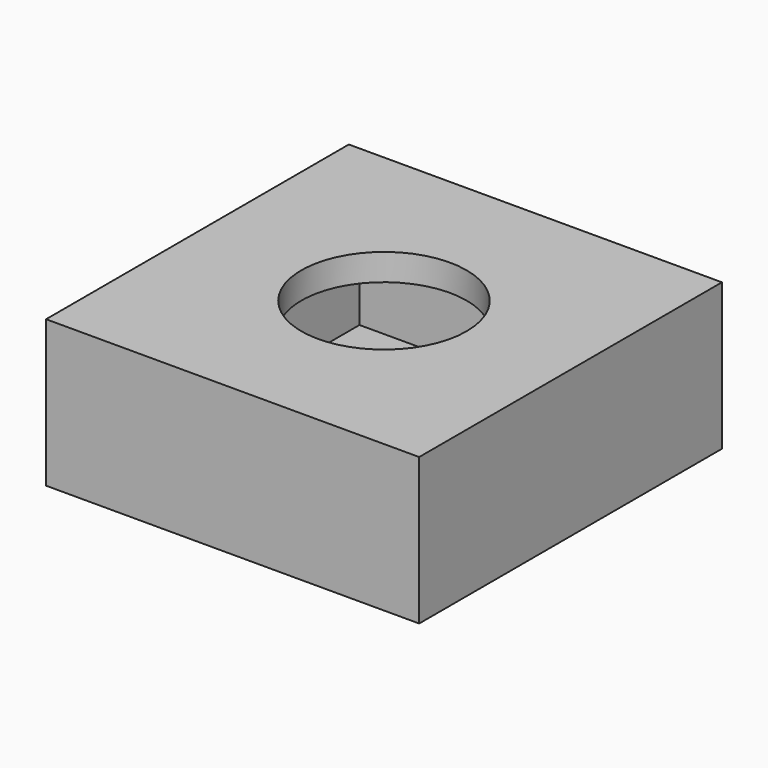
from build123d import *

# Parameters (mm, degrees)
F0_W     = 7
F0_H     = 7.1
F0_R     = 1.55
F1_DEPTH = 0.5
F2_W     = 7
F2_H     = 7.1
F2_W_2   = 5
F2_H_2   = 5.1
F3_DEPTH = 1.75
F4_W     = 7
F4_H     = 7.1
F4_R     = 1.55
F5_DEPTH = 0.5


with BuildPart() as f1:
    # F0 (on Top) → F1 (new body)
    with BuildSketch(Plane.XY):
        Rectangle(F0_W, F0_H)
        Circle(F0_R, mode=Mode.SUBTRACT)
    extrude(amount=F1_DEPTH)

    # F2 (on face) → F3 (join)
    with BuildSketch(Plane.XY.offset(0.5)):
        Rectangle(F2_W, F2_H)
        Rectangle(F2_W_2, F2_H_2, mode=Mode.SUBTRACT)
    extrude(amount=F3_DEPTH)

    # F4 (on face) → F5 (join)
    with BuildSketch(Plane.XY.offset(2.25)):
        Rectangle(F4_W, F4_H)
        Circle(F4_R, mode=Mode.SUBTRACT)
    extrude(amount=F5_DEPTH)


solid = f1.part
